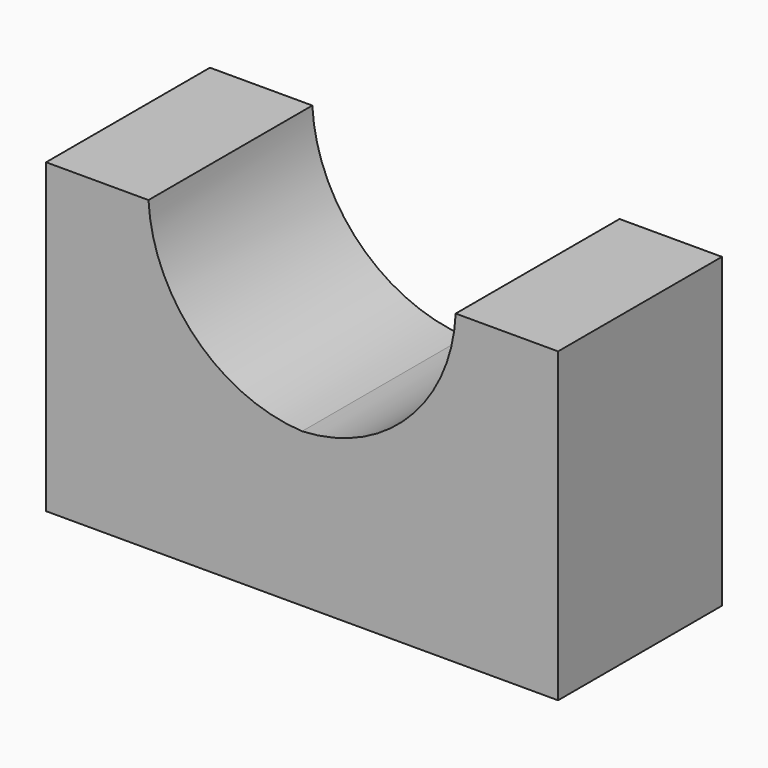
from build123d import *

# Parameters (mm, degrees)
F0_W     = 63.5
F0_H     = 38.1
F1_DEPTH = 25.4
F3_DEPTH = 25.4


with BuildPart() as f1:
    # F0 (on Front) → F1 (new body)
    with BuildSketch(Plane.XZ):
        with Locations((-31.75, 19.05)):
            Rectangle(F0_W, F0_H)
    extrude(amount=F1_DEPTH)

    # F2 (on face) → F3 (cut)
    with BuildSketch(Plane.XZ.offset(25.4)):
        with BuildLine():
            ThreePointArc((-50.8, 38.1), (-44.931719, 24.918281), (-31.75, 19.05))
            ThreePointArc((-31.75, 19.05), (-18.530061, 24.880061), (-12.7, 38.1))
            Line((-12.7, 38.1), (-31.75, 38.1))
            Line((-31.75, 38.1), (-50.8, 38.1))
        make_face()
    extrude(amount=-F3_DEPTH, mode=Mode.SUBTRACT)


solid = f1.part
